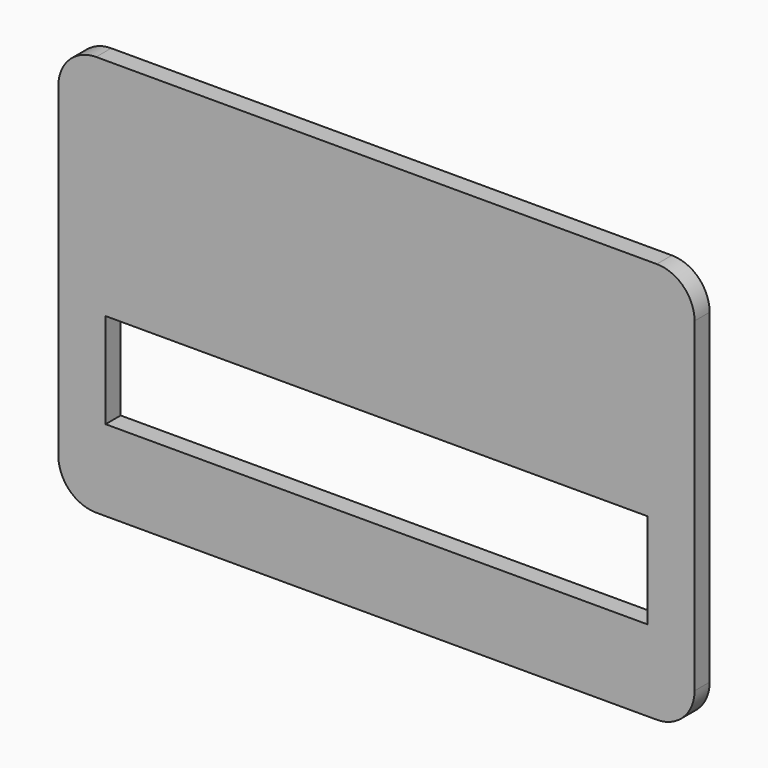
from build123d import *

# Parameters (mm, degrees)
F0_W     = 72.898
F0_H     = 12.809911
F1_DEPTH = 2.54


with BuildPart() as f1:
    # F0 (on Front) → F1 (new body)
    with BuildSketch(Plane.XZ):
        with BuildLine():
            Line((37.719, 26.9875), (-37.719, 26.9875))
            ThreePointArc((-37.719, 26.9875), (-41.311102, 25.499602), (-42.799, 21.9075))
            Line((-42.799, 21.9075), (-42.799, -21.9075))
            ThreePointArc((-42.799, -21.9075), (-41.311102, -25.499602), (-37.719, -26.9875))
            Line((-37.719, -26.9875), (37.719, -26.9875))
            ThreePointArc((37.719, -26.9875), (41.311102, -25.499602), (42.799, -21.9075))
            Line((42.799, -21.9075), (42.799, 21.9075))
            ThreePointArc((42.799, 21.9075), (41.311102, 25.499602), (37.719, 26.9875))
        make_face()
        with Locations((0, -9.691434)):
            Rectangle(F0_W, F0_H, mode=Mode.SUBTRACT)
    extrude(amount=F1_DEPTH)


solid = f1.part
